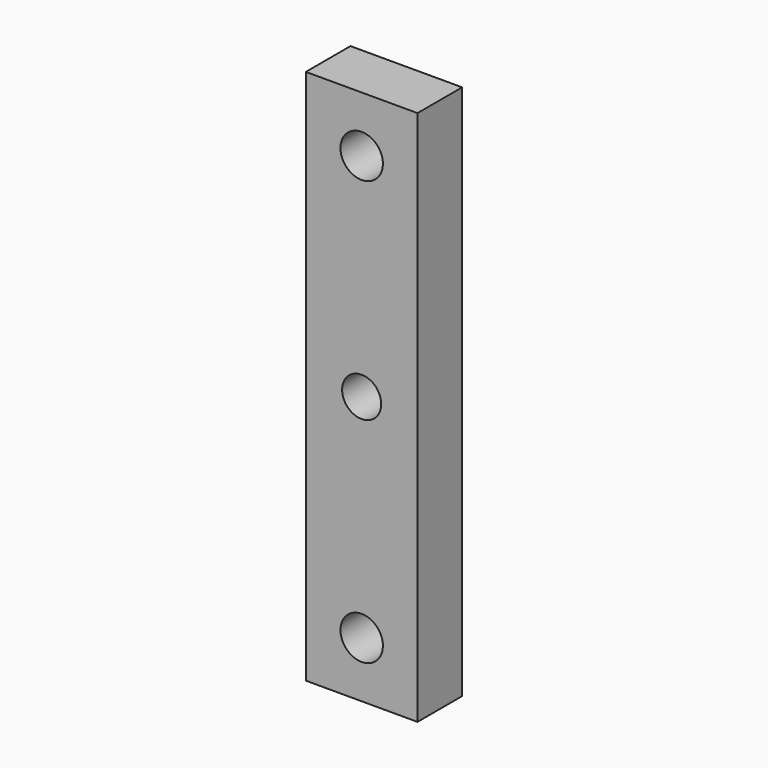
from build123d import *

# Parameters (mm, degrees)
CYLINDER049_R     = 1.9
CYLINDER049_DEPTH = 10
CYLINDER050_R     = 1.9
CYLINDER050_DEPTH = 10
CYLINDER048_R     = 1.75
CYLINDER048_DEPTH = 10
BOX007_W          = 10
BOX007_H          = 5
BOX007_DEPTH      = 48


with BuildPart() as cylinder049:
    # Cylinder049 → Cylinder049 (new body)
    with BuildSketch(Plane(origin=(-115, 0, -50), x_dir=(1, 0, 0), z_dir=(0, -1, 0))):
        Circle(CYLINDER049_R)
    extrude(amount=CYLINDER049_DEPTH)


with BuildPart() as cylinder050:
    # Cylinder050 → Cylinder050 (new body)
    with BuildSketch(Plane(origin=(-115, 0, -12), x_dir=(1, 0, 0), z_dir=(0, -1, 0))):
        Circle(CYLINDER050_R)
    extrude(amount=CYLINDER050_DEPTH)


with BuildPart() as sidecuts:
    # Cylinder048 → Cylinder048 (new body)
    with BuildSketch(Plane(origin=(-115, 0, -31), x_dir=(1, 0, 0), z_dir=(0, -1, 0))):
        Circle(CYLINDER048_R)
    extrude(amount=CYLINDER048_DEPTH)

    # Fusion017: union Cylinder049, Cylinder050
    add(cylinder049.part)
    add(cylinder050.part)


with BuildPart() as sidecuts_1:
    # Fusion017 placement: moved
    add(sidecuts.part.moved(Location((0, 9.8, 0))))


with BuildPart() as cornerbase:
    # Box007 → Box007 (new body)
    with BuildSketch(Plane(origin=(-120, 0, -55), x_dir=(1, 0, 0), z_dir=(0, 0, 1))):
        with Locations((5, 2.5)):
            Rectangle(BOX007_W, BOX007_H)
    extrude(amount=BOX007_DEPTH)

    # Cut001: cut sideCuts
    add(sidecuts_1.part, mode=Mode.SUBTRACT)


solid = cornerbase.part
